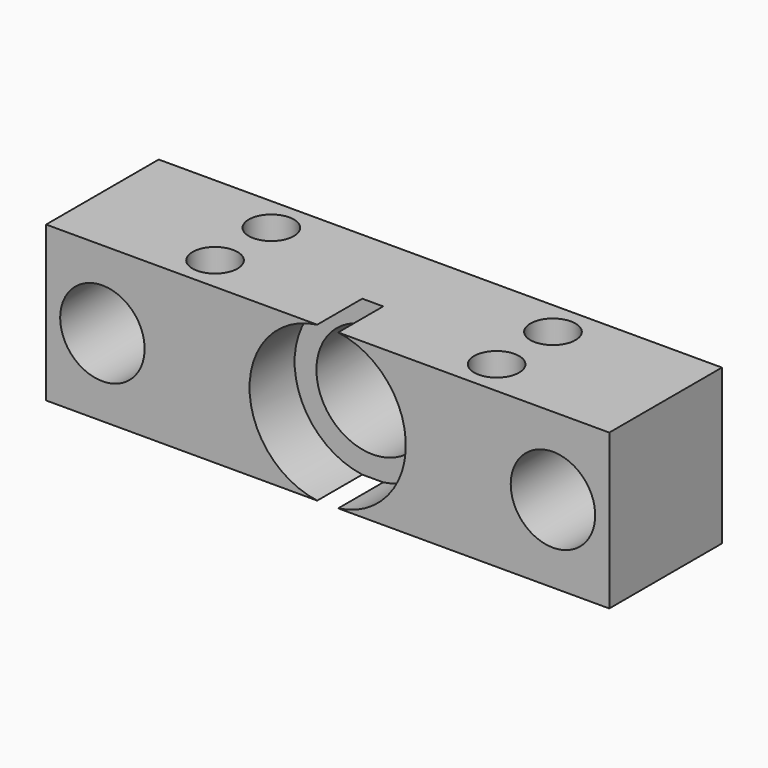
from build123d import *

# Parameters (mm, degrees)
SKETCH_W        = 80
SKETCH_H        = 20
SKETCH_R        = 3.2
PAD_DEPTH       = 22
SKETCH001_R     = 11.1
POCKET_DEPTH    = 8
SKETCH002_R     = 6
SKETCH002_R_2   = 8
POCKET001_DEPTH = 20


with BuildPart() as part:
    # Sketch → Pad (new body)
    with BuildSketch(Plane.XY):
        with Locations((40, 10)):
            Rectangle(SKETCH_W, SKETCH_H)
        with Locations((20, 15)):
            Circle(SKETCH_R, mode=Mode.SUBTRACT)
        with Locations((20, 5)):
            Circle(SKETCH_R, mode=Mode.SUBTRACT)
        with Locations((60, 15)):
            Circle(SKETCH_R, mode=Mode.SUBTRACT)
        with Locations((60, 5)):
            Circle(SKETCH_R, mode=Mode.SUBTRACT)
    extrude(amount=PAD_DEPTH)

    # Sketch001 (on Face3 of Pad) → Pocket (cut)
    with BuildSketch(Plane.XZ):
        with Locations((40, 11)):
            Circle(SKETCH001_R)
    extrude(amount=-POCKET_DEPTH, mode=Mode.SUBTRACT)

    # Sketch002 (on Face1 of Pocket) → Pocket001 (cut)
    with BuildSketch(Plane(origin=(0, 20, 0), x_dir=(-1, 0, 0), z_dir=(0, 1, 0))):
        with Locations((-72, 11)):
            Circle(SKETCH002_R)
        with Locations((-8, 11)):
            Circle(SKETCH002_R)
        with Locations((-40, 11)):
            Circle(SKETCH002_R_2)
    extrude(amount=-POCKET001_DEPTH, mode=Mode.SUBTRACT)


solid = part.part
